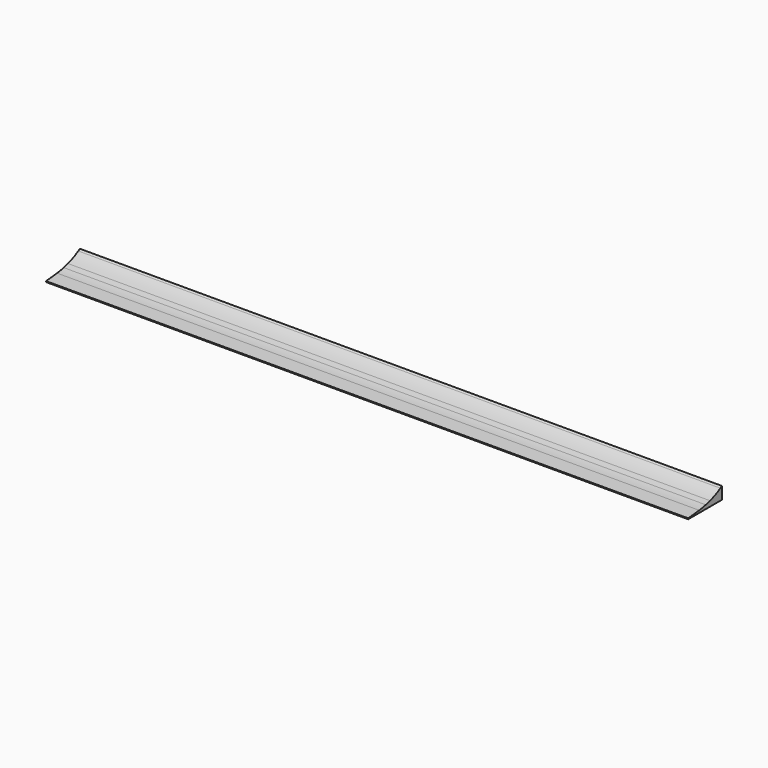
from build123d import *

# Parameters (mm, degrees)
F1_DEPTH = 825.5


with BuildPart() as f1:
    # F0 (on Right) → F1 (new body, symmetric)
    with BuildSketch(Plane.YZ):
        with BuildLine():
            Line((-17.4017421393, 5.936837718), (-52.8176613152, 2.3044354748))
            Line((-52.8176613152, 2.3044354748), (-52.8176613152, 0))
            Line((-52.8176613152, 0), (55.627758292, 0))
            Line((55.627758292, 0), (55.627758292, 31.5129175921))
            Line((55.627758292, 31.5129175921), (50.5852726164, 28.3613643292))
            ThreePointArc((50.5852726164, 28.3613643292), (34.4368278859, 19.8181329), (17.22969466, 13.6802475466))
            Line((17.22969466, 13.6802475466), (3.594874024, 9.8971762013))
            ThreePointArc((3.594874024, 9.8971762013), (-6.8199988392, 7.474656574), (-17.4017421393, 5.936837718))
        make_face()
    extrude(amount=F1_DEPTH, both=True)


solid = f1.part
